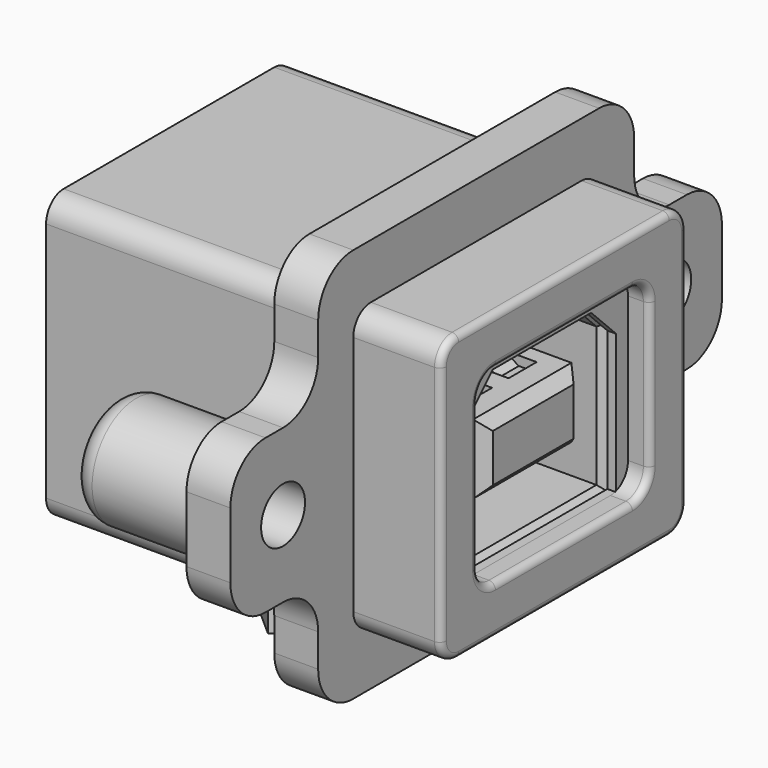
from build123d import *

# Parameters (mm, degrees)
PAD_DEPTH            = 2
PAD001_DEPTH         = 4
PAD001_DEPTH_BACK    = 14
SKETCH002_W          = 12.4
SKETCH002_H          = 11.4
POCKET_DEPTH         = 17
POCKET001_DEPTH      = 14.001
POCKET001_DEPTH_BACK = 4.001
SKETCH005_R          = 2.5
PAD002_DEPTH         = 7.7
SKETCH006_R          = 1.25
POCKET002_DEPTH      = 5
PAD003_DEPTH         = 2.5
POCKET003_DEPTH      = 1
FILLET_R             = 1
FILLET001_R          = 0.3
SKETCH009_W          = 12.4
SKETCH009_H          = 11.4
PAD004_DEPTH         = 16.5
SKETCH010_W          = 11.6
SKETCH010_H          = 10.6
POCKET004_DEPTH      = 16.1
POCKET005_DEPTH      = 13.501
POCKET005_DEPTH_BACK = 3.001
SKETCH012_W          = 5.5
SKETCH012_H          = 10.9
POCKET006_DEPTH      = 2
PAD005_DEPTH         = 0.4
SKETCH013_W          = 11.6
SKETCH013_H          = 10.6
PAD006_DEPTH         = 2.6
PAD006_DEPTH_BACK    = 9
SKETCH014_W          = 5.6
SKETCH014_H          = 3.18
POCKET007_DEPTH      = 8.38
SKETCH016_W          = 1.6
SKETCH016_H          = 1
POCKET008_DEPTH      = 10.1
CHAMFER_SIZE         = 0.5
PAD007_DEPTH         = 0.58
POCKET009_DEPTH      = 45.280701
ARRAY_Y_COUNT        = 2
ARRAY_Y_PITCH        = 2.5


with BuildPart() as body:
    # Sketch → Pad (new body)
    with BuildSketch(Plane.YZ):
        with BuildLine():
            Line((-14, 8), (-14, 5))
            ThreePointArc((-14, 5), (-13.414214, 3.585786), (-12, 3))
            Line((-12, 3), (-11, 3))
            ThreePointArc((-9, 1), (-9.585786, 2.414214), (-11, 3))
            Line((-9, 1), (-9, -0.5))
            ThreePointArc((-9, -0.5), (-8.414214, -1.914214), (-7, -2.5))
            Line((-7, -2.5), (7, -2.5))
            ThreePointArc((7, -2.5), (8.414214, -1.914214), (9, -0.5))
            Line((9, -0.5), (9, 1))
            ThreePointArc((11, 3), (9.585786, 2.414214), (9, 1))
            Line((11, 3), (12, 3))
            ThreePointArc((12, 3), (13.414214, 3.585786), (14, 5))
            Line((14, 5), (14, 8))
            ThreePointArc((14, 8), (13.414214, 9.414214), (12, 10))
            Line((12, 10), (11, 10))
            ThreePointArc((9, 12), (9.585786, 10.585786), (11, 10))
            Line((9, 12), (9, 13.5))
            ThreePointArc((9, 13.5), (8.414214, 14.914214), (7, 15.5))
            Line((7, 15.5), (-7, 15.5))
            ThreePointArc((-7, 15.5), (-8.414214, 14.914214), (-9, 13.5))
            Line((-9, 13.5), (-9, 12))
            ThreePointArc((-11, 10), (-9.585786, 10.585786), (-9, 12))
            Line((-11, 10), (-12, 10))
            ThreePointArc((-12, 10), (-13.414214, 9.414214), (-14, 8))
        make_face()
    extrude(amount=-PAD_DEPTH)

    # Sketch001 → Pad001 (join, two sides)
    with BuildSketch(Plane.YZ) as pad001_sk:
        with BuildLine():
            Line((-6, 0), (6, 0))
            ThreePointArc((6, 0), (6.707107, 0.292893), (7, 1))
            Line((7, 1), (7, 12))
            ThreePointArc((7, 12), (6.707107, 12.707107), (6, 13))
            Line((6, 13), (-6, 13))
            ThreePointArc((-6, 13), (-6.707107, 12.707107), (-7, 12))
            Line((-7, 12), (-7, 1))
            ThreePointArc((-7, 1), (-6.707107, 0.292893), (-6, 0))
        make_face()
    extrude(amount=PAD001_DEPTH)
    extrude(pad001_sk.sketch, amount=-PAD001_DEPTH_BACK)

    # Sketch002 → Pocket (cut)
    with BuildSketch(Plane.YZ.offset(-14)):
        with Locations((0, 6.5)):
            Rectangle(SKETCH002_W, SKETCH002_H)
    extrude(amount=POCKET_DEPTH, mode=Mode.SUBTRACT)

    # Sketch003 → Pocket001 (cut, two sides)
    with BuildSketch(Plane.YZ) as pocket001_sk:
        with BuildLine():
            Line((-3.9, 10.8), (3.9, 10.8))
            ThreePointArc((4.9, 9.8), (4.607107, 10.507107), (3.9, 10.8))
            Line((4.9, 9.8), (4.9, 3.2))
            ThreePointArc((3.9, 2.2), (4.607107, 2.492893), (4.9, 3.2))
            Line((3.9, 2.2), (-3.9, 2.2))
            ThreePointArc((-4.9, 3.2), (-4.607107, 2.492893), (-3.9, 2.2))
            Line((-4.9, 3.2), (-4.9, 9.8))
            ThreePointArc((-3.9, 10.8), (-4.607107, 10.507107), (-4.9, 9.8))
        make_face()
    extrude(amount=-POCKET001_DEPTH, mode=Mode.SUBTRACT)
    extrude(pocket001_sk.sketch, amount=POCKET001_DEPTH_BACK, mode=Mode.SUBTRACT)

    # Sketch005 → Pad002 (join)
    with BuildSketch(Plane.YZ):
        with Locations((-11, 6.5)):
            Circle(SKETCH005_R)
        with Locations((11, 6.5)):
            Circle(SKETCH005_R)
    extrude(amount=-PAD002_DEPTH)

    # Sketch006 → Pocket002 (cut)
    with BuildSketch(Plane.YZ):
        with Locations((-11, 6.5)):
            Circle(SKETCH006_R)
        with Locations((11, 6.5)):
            Circle(SKETCH006_R)
    extrude(amount=-POCKET002_DEPTH, mode=Mode.SUBTRACT)

    # Sketch007 → Pad003 (join)
    with BuildSketch(Plane.XY):
        Polygon((-5.5, -2.88), (-6.69, -3.93), (-5.5, -4.98), (-4.31, -3.93), align=None)
        Polygon((-5.5, 5.26), (-6.55, 4.07), (-5.5, 2.88), (-4.45, 4.07), align=None)
    extrude(amount=-PAD003_DEPTH)

    # Sketch008 → Pocket003 (cut)
    with BuildSketch(Plane.XY):
        with BuildLine():
            Line((-9, 5.45), (-14, 5.45))
            Line((-14, 5.45), (-14, -5.45))
            Line((-14, -5.45), (-9, -5.45))
            ThreePointArc((-9, -5.45), (-8.292893, -5.157107), (-8, -4.45))
            Line((-8, -4.45), (-8, 4.45))
            ThreePointArc((-8, 4.45), (-8.292893, 5.157107), (-9, 5.45))
        make_face()
    extrude(amount=POCKET003_DEPTH, mode=Mode.SUBTRACT)

    # Fillet
    fillet_edges = [body.edges().sort_by_distance(p)[0] for p in [
        (-7.7, -13.5, 6.5),
        (-7.7, 8.5, 6.5),
    ]]
    fillet(fillet_edges, radius=FILLET_R)

    # Fillet001
    fillet001_edges = [body.edges().sort_by_distance(p)[0] for p in [
        (4, 0, 13),
        (4, 0, 10.8),
    ]]
    fillet(fillet001_edges, radius=FILLET001_R)


with BuildPart() as housing:
    # Sketch009 → Pad004 (new body)
    with BuildSketch(Plane.YZ.offset(-13.5)):
        with Locations((0, 6.5)):
            Rectangle(SKETCH009_W, SKETCH009_H)
    extrude(amount=PAD004_DEPTH)

    # Sketch010 → Pocket004 (cut)
    with BuildSketch(Plane.YZ.offset(-13.5)):
        with Locations((0, 6.5)):
            Rectangle(SKETCH010_W, SKETCH010_H)
    extrude(amount=POCKET004_DEPTH, mode=Mode.SUBTRACT)

    # Sketch011 → Pocket005 (cut, two sides)
    with BuildSketch(Plane.YZ) as pocket005_sk:
        Polygon((-2.8, 9.98), (2.8, 9.98), (4.225, 8.555), (4.225, 2.2), (-4.225, 2.2), (-4.225, 8.555), align=None)
    extrude(amount=-POCKET005_DEPTH, mode=Mode.SUBTRACT)
    extrude(pocket005_sk.sketch, amount=POCKET005_DEPTH_BACK, mode=Mode.SUBTRACT)

    # Sketch012 → Pocket006 (cut)
    with BuildSketch(Plane.XY):
        with Locations((-10.75, 0)):
            Rectangle(SKETCH012_W, SKETCH012_H)
    extrude(amount=POCKET006_DEPTH, mode=Mode.SUBTRACT)

    # Sketch009 → Pad005 (join)
    with BuildSketch(Plane.YZ.offset(-13.5)):
        with Locations((0, 6.5)):
            Rectangle(SKETCH009_W, SKETCH009_H)
    extrude(amount=PAD005_DEPTH)


with BuildPart() as insert:
    # Sketch013 → Pad006 (new body, two sides)
    with BuildSketch(Plane.YZ) as pad006_sk:
        with Locations((0, 6.5)):
            Rectangle(SKETCH013_W, SKETCH013_H)
    extrude(amount=PAD006_DEPTH)
    extrude(pad006_sk.sketch, amount=-PAD006_DEPTH_BACK)

    # Sketch014 → Pocket007 (cut)
    with BuildSketch(Plane.YZ.offset(2.6)):
        Polygon((-2.8, 9.98), (2.8, 9.98), (4.225, 8.555), (4.225, 2.2), (-4.225, 2.2), (-4.225, 8.555), align=None)
        with Locations((0, 6.09)):
            Rectangle(SKETCH014_W, SKETCH014_H, mode=Mode.SUBTRACT)
    extrude(amount=-POCKET007_DEPTH, mode=Mode.SUBTRACT)

    # Sketch016 → Pocket008 (cut)
    with BuildSketch(Plane.YZ.offset(-9)):
        with Locations((-1.27, 7.68)):
            Rectangle(SKETCH016_W, SKETCH016_H)
        with Locations((-1.27, 4.5)):
            Rectangle(SKETCH016_W, SKETCH016_H)
    pocket008 = extrude(amount=POCKET008_DEPTH, mode=Mode.SUBTRACT)

    # Mirrored: Pocket008 across Sketch016 V_Axis
    add(pocket008.mirror(Plane(origin=(-9, 0, 0), x_dir=(1, 0, 0), z_dir=(0, 1, 0))), mode=Mode.SUBTRACT)

    # Chamfer
    chamfer_edges = [insert.edges().sort_by_distance(p)[0] for p in [
        (2.6, 0, 9.98),
        (2.6, 0, 7.68),
        (2.6, -3.5125, 9.2675),
        (2.6, 3.5125, 9.2675),
        (2.6, 4.225, 5.3775),
        (2.6, -4.225, 5.3775),
        (2.6, 0, 2.2),
        (2.6, 0, 4.5),
        (2.6, 2.8, 6.09),
        (2.6, -2.8, 6.09),
    ]]
    chamfer(chamfer_edges, length=CHAMFER_SIZE)


with BuildPart() as pins:
    # Sketch017 → Pad007 (new body, symmetric)
    with BuildSketch(Plane.XZ):
        Polygon((-9.865, -1.83), (-10.115, -1.83), (-10.115, 5), (-8, 5), (-8, 7.18), (-11.865, 7.18), (-11.865, -1.83), (-12.115, -1.83), (-12.115, 7.43), (-3.835, 7.43), (-0.625, 8.119499), (0.495, 7.43), (1.1, 7.43), (1.1, 7.18), (0.424216, 7.18), (-0.670608, 7.854), (-3.808453, 7.18), (-7.75, 7.18), (-7.75, 5), (-3.808453, 5), (-0.670608, 4.326), (0.424216, 5), (1.1, 5), (1.1, 4.75), (0.495, 4.75), (-0.625, 4.060501), (-3.835, 4.75), (-9.865, 4.75), align=None)
    extrude(amount=PAD007_DEPTH, both=True)

    # Sketch019 → Pocket009 (cut, through all)
    with BuildSketch(Plane.YZ):
        Polygon((-0.225, -1.83), (-0.29, -0.33), (-0.29, 1.2), (-0.58, 1.2), (-0.58, -1.83), align=None)
    pocket009 = extrude(amount=-POCKET009_DEPTH, mode=Mode.SUBTRACT)

    # Mirrored001: Pocket009 across Sketch019 V_Axis
    add(pocket009.mirror(Plane(origin=(0, 0, 0), x_dir=(1, 0, 0), z_dir=(0, 1, 0))), mode=Mode.SUBTRACT)

    # Array Y: Pins ×2


with BuildPart() as pins_1:
    add(pins.part)
    with Locations(*[(0, i * ARRAY_Y_PITCH, 0) for i in range(1, ARRAY_Y_COUNT)]):
        add(pins.part)


with BuildPart() as pins_2:
    # Array placement: moved
    add(pins_1.part.moved(Location((0, -1.27, 0))))


solid = Compound([body.part, housing.part, insert.part, pins_2.part])
